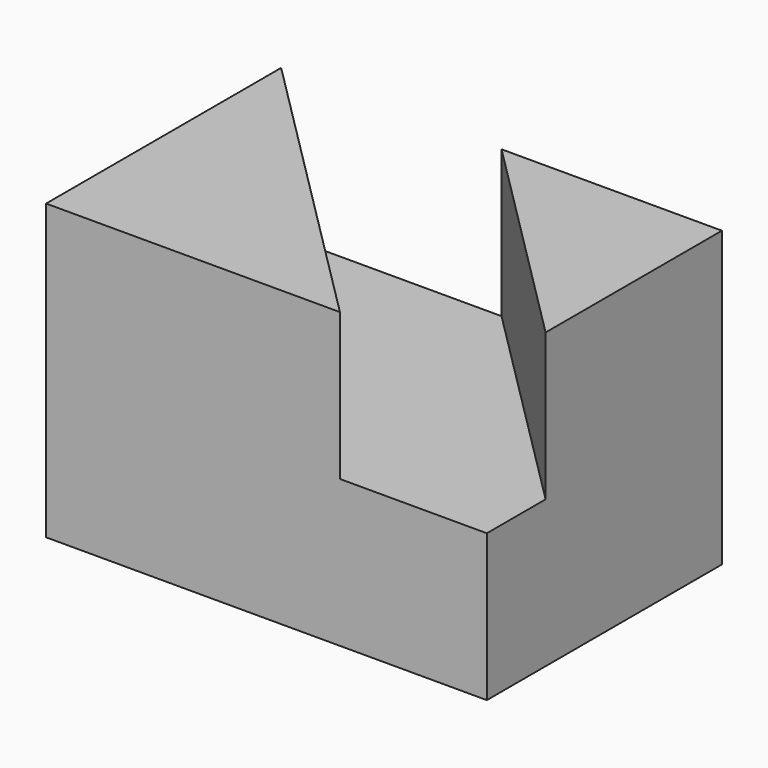
from build123d import *

# Parameters (mm, degrees)
F0_W     = 38.1
F0_H     = 25.4
F1_DEPTH = 25.4
F3_DEPTH = 12.7


with BuildPart() as f1:
    # F0 (on Top) → F1 (new body)
    with BuildSketch(Plane.XY):
        with Locations((19.05, 12.7)):
            Rectangle(F0_W, F0_H)
    extrude(amount=-F1_DEPTH)

    # F2 (on Top) → F3 (cut)
    with BuildSketch(Plane.XY):
        Polygon((19.05, 25.4), (0, 25.4), (25.4, 0), (38.1, 0), (38.1, 6.35), align=None)
    extrude(amount=-F3_DEPTH, mode=Mode.SUBTRACT)


solid = f1.part
